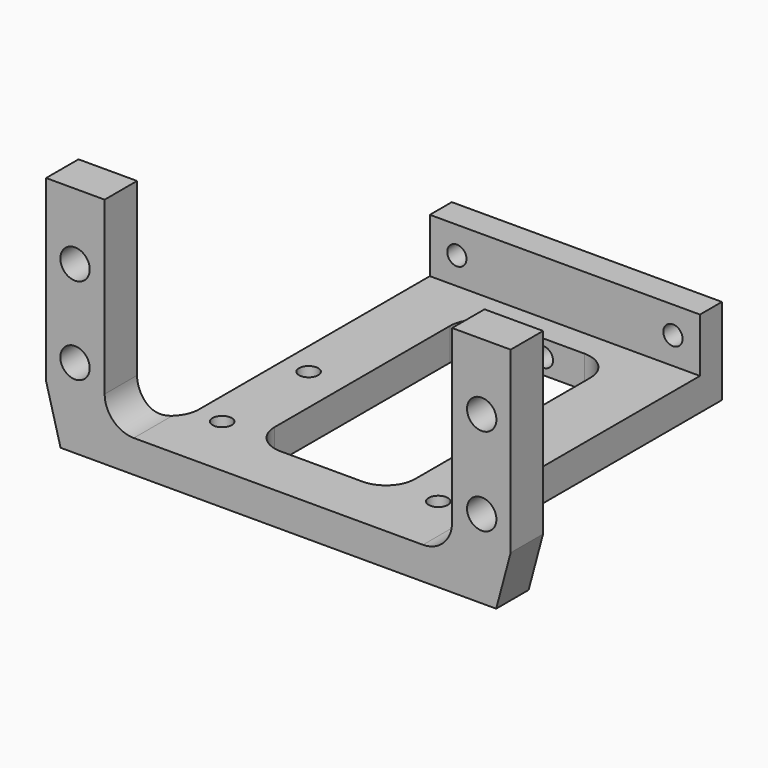
from build123d import *

# Parameters (mm, degrees)
F1_DEPTH  = 4.7625
F3_DEPTH  = 37.338
F4_R      = 3.429
F5_W      = 31.75
F5_H      = 6.35
F5_H_2    = 3.81
F6_DEPTH  = 3.2258
F8_D      = 3.4544
F10_D     = 2.2606
F10_DEPTH = 10.16
F10_TIP   = 0.6791527577
F12_DEPTH = 3.8110001
F14_D     = 2.2606


with BuildPart() as f1:
    # F0 (on Front) → F1 (new body)
    with BuildSketch(Plane.XZ):
        with BuildLine():
            Line((-25.6032, -13.6805935506), (0, -13.6805935506))
            Line((0, -13.6805935506), (25.6032, -13.6805935506))
            Line((25.6032, -13.6805935506), (27.305, -7.3305935506))
            Line((27.305, -7.3305935506), (27.305, 13.6805935506))
            Line((27.305, 13.6805935506), (20.4216, 13.6805935506))
            Line((20.4216, 13.6805935506), (20.4216, -6.4415935506))
            ThreePointArc((20.4216, -6.4415935506), (19.4172691527, -8.8662627033), (16.9926, -9.8705935506))
            Line((16.9926, -9.8705935506), (0, -9.8705935506))
            Line((0, -9.8705935506), (-16.9926, -9.8705935506))
            ThreePointArc((-16.9926, -9.8705935506), (-19.4172691527, -8.8662627033), (-20.4216, -6.4415935506))
            Line((-20.4216, -6.4415935506), (-20.4216, 13.6805935506))
            Line((-20.4216, 13.6805935506), (-27.305, 13.6805935506))
            Line((-27.305, 13.6805935506), (-27.305, -7.3305935506))
            Line((-27.305, -7.3305935506), (-25.6032, -13.6805935506))
        make_face()
    extrude(amount=F1_DEPTH)

    # F2 (on face) → F3 (join)
    with BuildSketch(Plane(origin=(0, 0, 0), x_dir=(-1, 0, 0), z_dir=(0, 1, 0))):
        Polygon((15.875, -9.8705935506), (0, -9.8705935506), (-15.875, -9.8705935506), (-15.875, -13.6805935506), (0, -13.6805935506), (15.875, -13.6805935506), align=None)
    extrude(amount=F3_DEPTH)

    # F4
    f4_edges = [f1.edges().sort_by_distance(p)[0] for p in [
        (15.875, 0, -11.775594),
        (-15.875, 0, -11.775594),
    ]]
    fillet(f4_edges, radius=F4_R)

    # F5 (on face) → F6 (join)
    with BuildSketch(Plane(origin=(0, 37.338, 0), x_dir=(-1, 0, 0), z_dir=(0, 1, 0))):
        with Locations((0, -6.6955935506)):
            Rectangle(F5_W, F5_H)
        with Locations((0, -11.7755935506)):
            Rectangle(F5_W, F5_H_2)
    extrude(amount=F6_DEPTH)

    # F8 (through all)
    with Locations(Plane(origin=(0, 0, 0), x_dir=(1, 0, 0), z_dir=(0, 1, 0))):
        with Locations((-23.9014, -5.8859053767), (-23.9014, 4.3248946233), (23.9014, 4.4349935506), (23.9014, -5.8859053767)):
            Hole(F8_D / 2)

    # F10
    with Locations(Plane(origin=(0, 40.5638, 0), x_dir=(-1, 0, 0), z_dir=(0, 1, 0))):
        with Locations((-12.7, -6.6955935506), (12.7, -6.6955935506), (0, -11.7755935506)):
            Hole(F10_D / 2, depth=F10_DEPTH)
            with Locations((0, 0, -(F10_DEPTH + F10_TIP / 2))):  # 118° drill point
                Cone(0, F10_D / 2, F10_TIP, mode=Mode.SUBTRACT)

    # F11 (on face) → F12 (cut, through all)
    with BuildSketch(Plane.XY.offset(-9.8705935506)):
        with BuildLine():
            Line((-4.826, 1.5875), (4.826, 1.5875))
            ThreePointArc((4.826, 1.5875), (7.2506691527, 2.5918308473), (8.255, 5.0165))
            Line((8.255, 5.0165), (8.255, 30.7467))
            ThreePointArc((8.255, 30.7467), (7.2506691527, 33.1713691527), (4.826, 34.1757))
            Line((4.826, 34.1757), (-4.826, 34.1757))
            ThreePointArc((-4.826, 34.1757), (-7.2506691527, 33.1713691527), (-8.255, 30.7467))
            Line((-8.255, 30.7467), (-8.255, 5.0165))
            ThreePointArc((-8.255, 5.0165), (-7.2506691527, 2.5918308473), (-4.826, 1.5875))
        make_face()
    extrude(amount=-F12_DEPTH, mode=Mode.SUBTRACT)

    # F14 (through all)
    with Locations(Plane.XY.offset(-9.8705935506)):
        with Locations((12.7, 2.8575), (12.7, 15.5575), (-12.7, 2.8575), (-12.7, 15.5575)):
            Hole(F14_D / 2)


solid = f1.part
